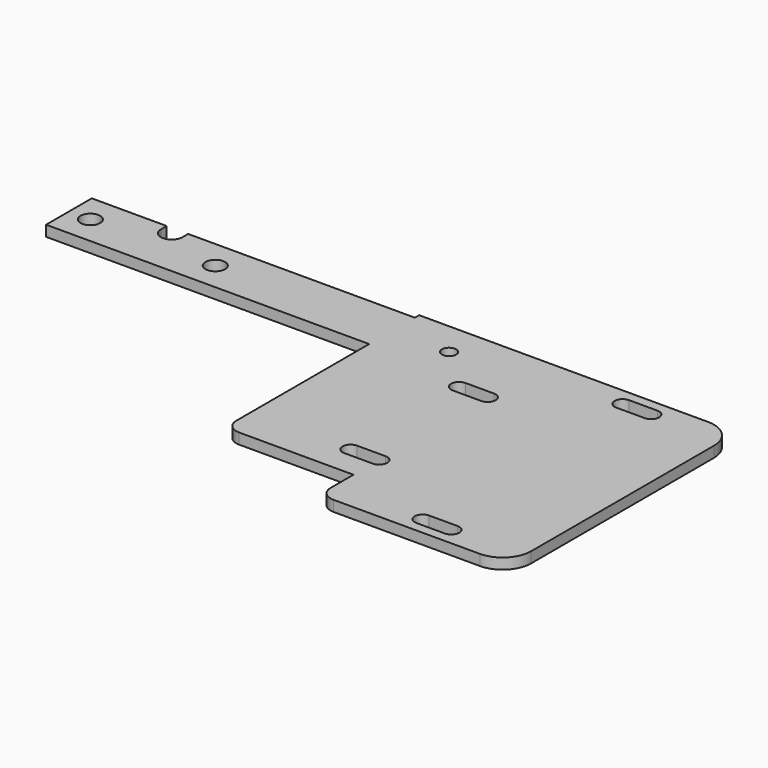
from build123d import *

# Parameters (mm, degrees)
F0_R     = 4.365625
F0_R_2   = 3.175
F1_DEPTH = 4.7625


with BuildPart() as f1:
    # F0 (on Top) → F1 (new body)
    with BuildSketch(Plane.XY):
        with BuildLine():
            Line((128.5875, 0), (0, 0))
            Line((0, 0), (0, -2.3876))
            Line((0, -2.3876), (-100.81895, -2.3876))
            Line((-100.81895, -2.3876), (-100.81895, -5.5626))
            ThreePointArc((-100.81895, -5.5626), (-105.58145, -10.3251), (-110.34395, -5.5626))
            Line((-110.34395, -5.5626), (-110.34395, -2.3876))
            Line((-110.34395, -2.3876), (-143.68145, -2.3876))
            Line((-143.68145, -2.3876), (-143.68145, -27.7876))
            Line((-143.68145, -27.7876), (0, -27.7876))
            Line((0, -27.7876), (0, -101.6))
            ThreePointArc((0, -101.6), (1.859872, -106.090128), (6.35, -107.95))
            Line((6.35, -107.95), (57.15, -107.95))
            Line((57.15, -107.95), (57.15, -120.65))
            ThreePointArc((57.15, -120.65), (59.009872, -125.140128), (63.5, -127))
            Line((63.5, -127), (128.5875, -127))
            ThreePointArc((128.5875, -127), (137.567756, -123.280256), (141.2875, -114.3))
            Line((141.2875, -114.3), (141.2875, -12.7))
            ThreePointArc((141.2875, -12.7), (137.567756, -3.719744), (128.5875, 0))
        make_face()
        with BuildLine():
            ThreePointArc((109.5375, -115.490625), (113.109375, -119.0625), (109.5375, -122.634375))
            Line((109.5375, -122.634375), (96.8375, -122.634375))
            ThreePointArc((96.8375, -122.634375), (93.265625, -119.0625), (96.8375, -115.490625))
            Line((96.8375, -115.490625), (109.5375, -115.490625))
        make_face(mode=Mode.SUBTRACT)
        with BuildLine():
            ThreePointArc((57.15, -90.090625), (60.721875, -93.6625), (57.15, -97.234375))
            Line((57.15, -97.234375), (44.45, -97.234375))
            ThreePointArc((44.45, -97.234375), (40.878125, -93.6625), (44.45, -90.090625))
            Line((44.45, -90.090625), (57.15, -90.090625))
        make_face(mode=Mode.SUBTRACT)
        with Locations((-134.15645, -15.0876)):
            Circle(F0_R, mode=Mode.SUBTRACT)
        with Locations((-78.59395, -15.0876)):
            Circle(F0_R, mode=Mode.SUBTRACT)
        with BuildLine():
            ThreePointArc((57.15, -29.765625), (60.721875, -33.3375), (57.15, -36.909375))
            Line((57.15, -36.909375), (44.45, -36.909375))
            ThreePointArc((44.45, -36.909375), (40.878125, -33.3375), (44.45, -29.765625))
            Line((44.45, -29.765625), (57.15, -29.765625))
        make_face(mode=Mode.SUBTRACT)
        with Locations((25.4, -15.0876)):
            Circle(F0_R_2, mode=Mode.SUBTRACT)
        with BuildLine():
            ThreePointArc((109.5375, -4.365625), (113.109375, -7.9375), (109.5375, -11.509375))
            Line((109.5375, -11.509375), (96.8375, -11.509375))
            ThreePointArc((96.8375, -11.509375), (93.265625, -7.9375), (96.8375, -4.365625))
            Line((96.8375, -4.365625), (109.5375, -4.365625))
        make_face(mode=Mode.SUBTRACT)
    extrude(amount=-F1_DEPTH)


solid = f1.part
